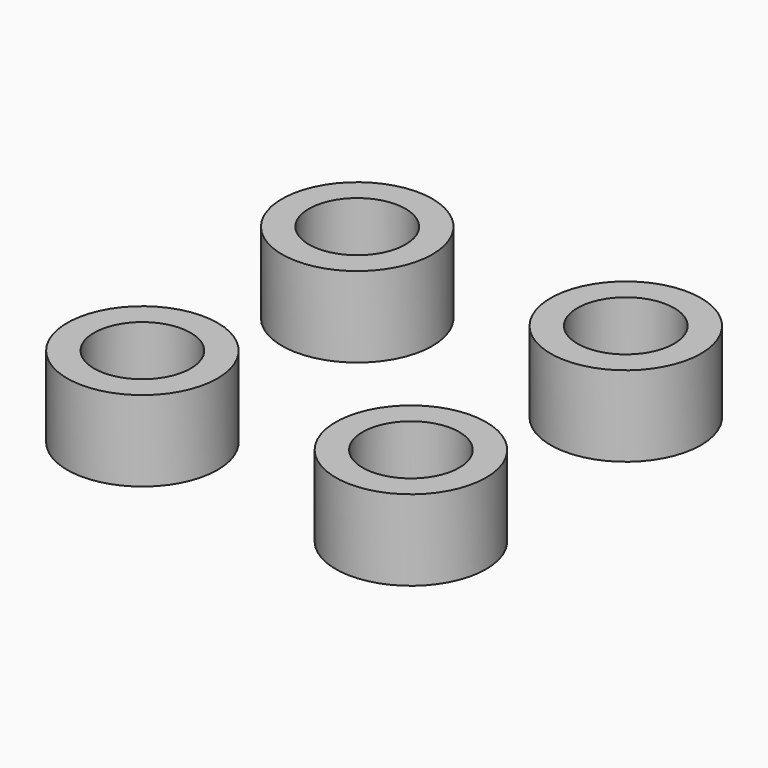
from build123d import *

# Parameters (mm, degrees)
F0_R     = 2.8
F0_R_2   = 1.8
F1_DEPTH = 3


with BuildPart() as f1:
    # F0 (on Top) → F1 (new body)
    with BuildSketch(Plane.XY):
        Circle(F0_R)
        Circle(F0_R_2, mode=Mode.SUBTRACT)
    extrude(amount=F1_DEPTH)


with BuildPart() as f2_1:
    # F2: copy of F1
    add(f1.part.moved(Location((10, 0, 0))))


with BuildPart() as f3_1:
    # F3: copy of F1
    add(f1.part.moved(Location((0, 10, 0))))


with BuildPart() as f3_2:
    # F3: copy of F2_1
    add(f2_1.part.moved(Location((0, 10, 0))))


solid = Compound([f1.part, f2_1.part, f3_1.part, f3_2.part])
